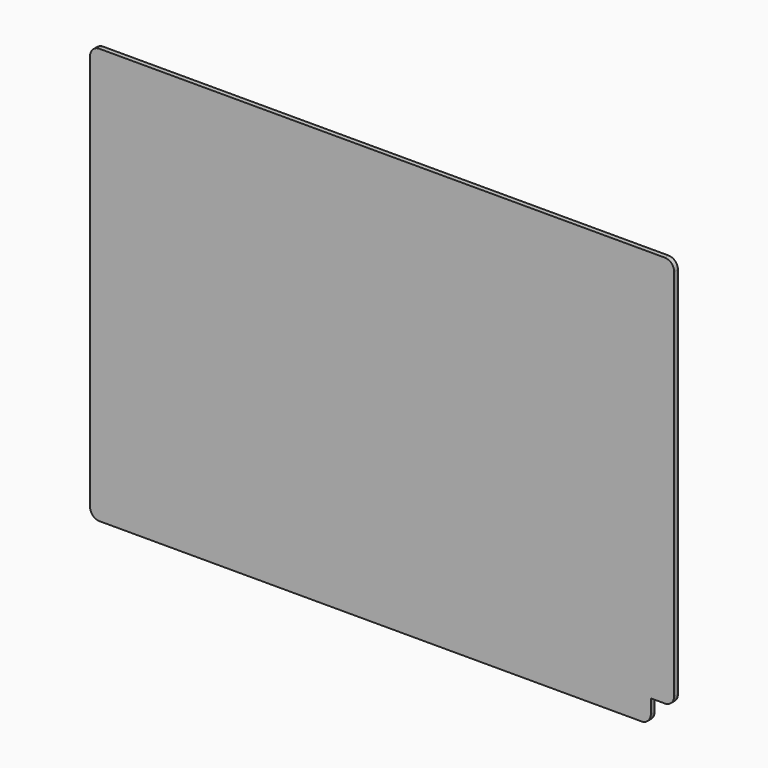
from build123d import *

# Parameters (mm, degrees)
F1_DEPTH = 5


with BuildPart() as f1:
    # F0 (on Front) → F1 (new body)
    with BuildSketch(Plane.XZ):
        with BuildLine():
            Line((298.05212, 205.260592), (-291.94788, 205.260592))
            ThreePointArc((-291.94788, 205.260592), (-299.018948, 202.33166), (-301.94788, 195.260592))
            Line((-301.94788, 195.260592), (-301.94788, -214.739408))
            Line((-301.94788, -214.739408), (298.05212, -214.739408))
            Line((298.05212, -214.739408), (298.05212, 205.260592))
        make_face()
        with BuildLine():
            Line((298.05212, -229.739408), (298.05212, -214.739408))
            Line((298.05212, -214.739408), (-301.94788, -214.739408))
            Line((-301.94788, -214.739408), (-301.94788, -229.739408))
            ThreePointArc((-301.94788, -229.739408), (-299.018948, -236.810476), (-291.94788, -239.739408))
            Line((-291.94788, -239.739408), (288.05212, -239.739408))
            ThreePointArc((288.05212, -239.739408), (295.123188, -236.810476), (298.05212, -229.739408))
        make_face()
        with BuildLine():
            Line((313.05212, 205.260592), (298.05212, 205.260592))
            Line((298.05212, 205.260592), (298.05212, -214.739408))
            Line((298.05212, -214.739408), (313.05212, -214.739408))
            ThreePointArc((313.05212, -214.739408), (320.123188, -211.810476), (323.05212, -204.739408))
            Line((323.05212, -204.739408), (323.05212, 195.260592))
            ThreePointArc((323.05212, 195.260592), (320.123188, 202.33166), (313.05212, 205.260592))
        make_face()
    extrude(amount=F1_DEPTH)


solid = f1.part
